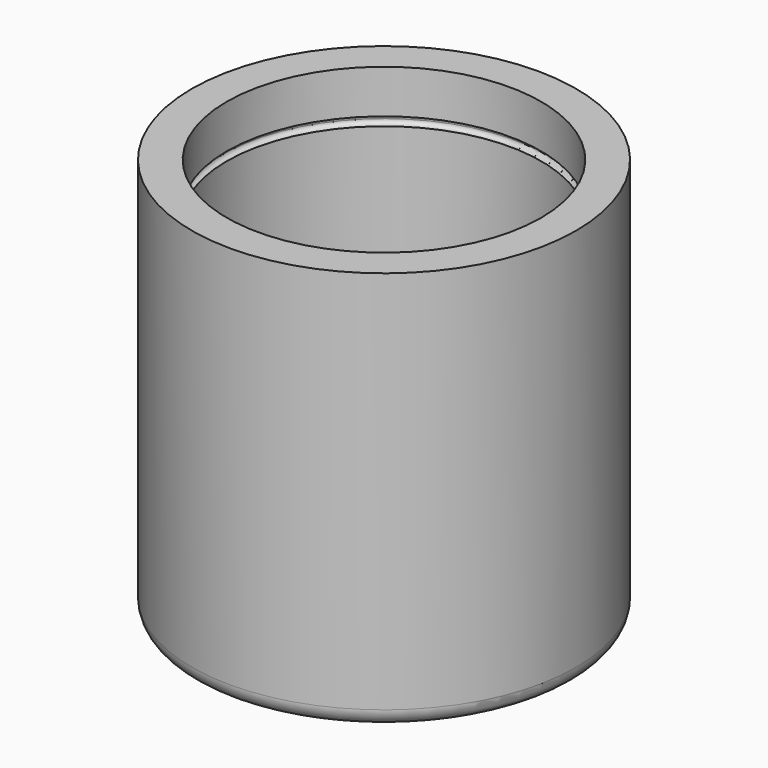
from build123d import *

# Parameters (mm, degrees)
F0_R     = 9
F1_DEPTH = 1.5
F2_R     = 11
F2_R_2   = 9
F3_DEPTH = 23
F6_R     = 1


with BuildPart() as f1:
    # F0 (on Top) → F1 (new body)
    with BuildSketch(Plane.XY):
        Circle(F0_R)
    extrude(amount=F1_DEPTH)

    # F2 (on Top) → F3 (join)
    with BuildSketch(Plane.XY):
        Circle(F2_R)
        Circle(F2_R_2, mode=Mode.SUBTRACT)
    extrude(amount=F3_DEPTH)

    # F4 (on Front) → F5 (revolve, cut)
    with BuildSketch(Plane.XZ):
        with BuildLine():
            ThreePointArc((8.997346, 20.502327), (8.82057, 20.07555), (9.247346, 20.252327))
            ThreePointArc((9.247346, 20.252327), (9.174123, 20.429104), (8.997346, 20.502327))
        make_face()
    revolve(axis=Axis((0, 0, 0), (0, 0, -1)), mode=Mode.SUBTRACT)

    # F6
    f6_edges = [f1.edges().sort_by_distance(p)[0] for p in [
        (-9, 0, 1.5),
        (-11, 0, 0),
    ]]
    fillet(f6_edges, radius=F6_R)


solid = f1.part
